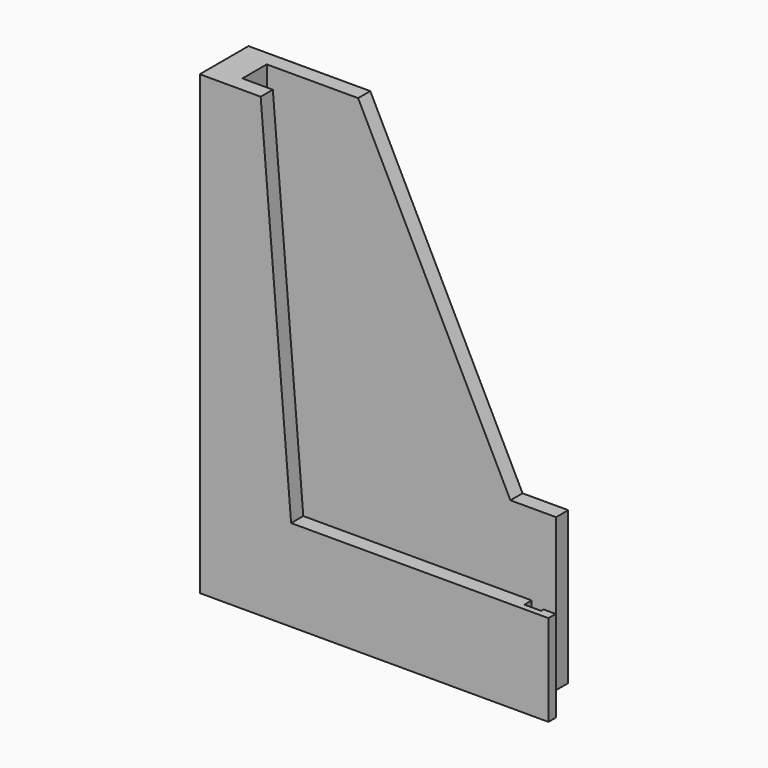
from build123d import *

# Parameters (mm, degrees)
F0_W      = 30
F0_H      = 5
F1_DEPTH  = 150
F2_W      = 95
F2_H      = 5
F3_DEPTH  = 30
F4_W      = 10
F4_H      = 5
F5_DEPTH  = 120
F7_DEPTH  = 5
F8_W      = 65
F8_H      = 5
F9_DEPTH  = 50
F11_DEPTH = 5
F12_W     = 95
F12_H     = 10
F13_DEPTH = 10
F14_W     = 5.5
F14_H     = 30
F15_DEPTH = 2
F16_W     = 4
F16_H     = 30
F17_DEPTH = 3
F18_W     = 8
F18_H     = 10
F19_DEPTH = 1


with BuildPart() as f1:
    # F0 (on Top) → F1 (new body)
    with BuildSketch(Plane.XY):
        Polygon((0, 20), (0, 0), (10, 0), (10, 15), (10, 20), align=None)
        with Locations((25, 17.5)):
            Rectangle(F0_W, F0_H)
    extrude(amount=F1_DEPTH)

    # F2 (on Top) → F3 (join)
    with BuildSketch(Plane.XY):
        with Locations((57.5, 2.5)):
            Rectangle(F2_W, F2_H)
    extrude(amount=F3_DEPTH)

    # F4 (on face) → F5 (join)
    with BuildSketch(Plane.XY.offset(30)):
        with Locations((15, 2.5)):
            Rectangle(F4_W, F4_H)
    extrude(amount=F5_DEPTH)

    # F6 (on face) → F7 (join)
    with BuildSketch(Plane.XZ):
        Polygon((30, 30), (20, 150), (20, 30), align=None)
    extrude(amount=-F7_DEPTH)

    # F8 (on Top) → F9 (join)
    with BuildSketch(Plane.XY):
        with Locations((72.5, 17.5)):
            Rectangle(F8_W, F8_H)
    extrude(amount=F9_DEPTH)

    # F10 (on face) → F11 (join)
    with BuildSketch(Plane(origin=(0, 20, 0), x_dir=(-1, 0, 0), z_dir=(0, 1, 0))):
        Polygon((-90, 50), (-40, 50), (-40, 150), align=None)
    extrude(amount=-F11_DEPTH)

    # F12 (on Top) → F13 (join)
    with BuildSketch(Plane.XY):
        with Locations((57.5, 10)):
            Rectangle(F12_W, F12_H)
    extrude(amount=F13_DEPTH)

    # F14 (on face) → F15 (join)
    with BuildSketch(Plane.XZ):
        with Locations((107.75, 15)):
            Rectangle(F14_W, F14_H)
    extrude(amount=-F15_DEPTH)

    # F16 (on face) → F17 (join)
    with BuildSketch(Plane.XZ):
        with Locations((112.5, 15)):
            Rectangle(F16_W, F16_H)
    extrude(amount=-F17_DEPTH)

    # F18 (on face) → F19 (cut)
    with BuildSketch(Plane(origin=(0, 0, 0), x_dir=(0, -1, 0), z_dir=(-1, 0, 0))):
        with Locations((-10, 35)):
            Rectangle(F18_W, F18_H)
        with Locations((-10, 85)):
            Rectangle(F18_W, F18_H)
        with Locations((-10, 135)):
            Rectangle(F18_W, F18_H)
    extrude(amount=-F19_DEPTH, mode=Mode.SUBTRACT)


solid = f1.part
